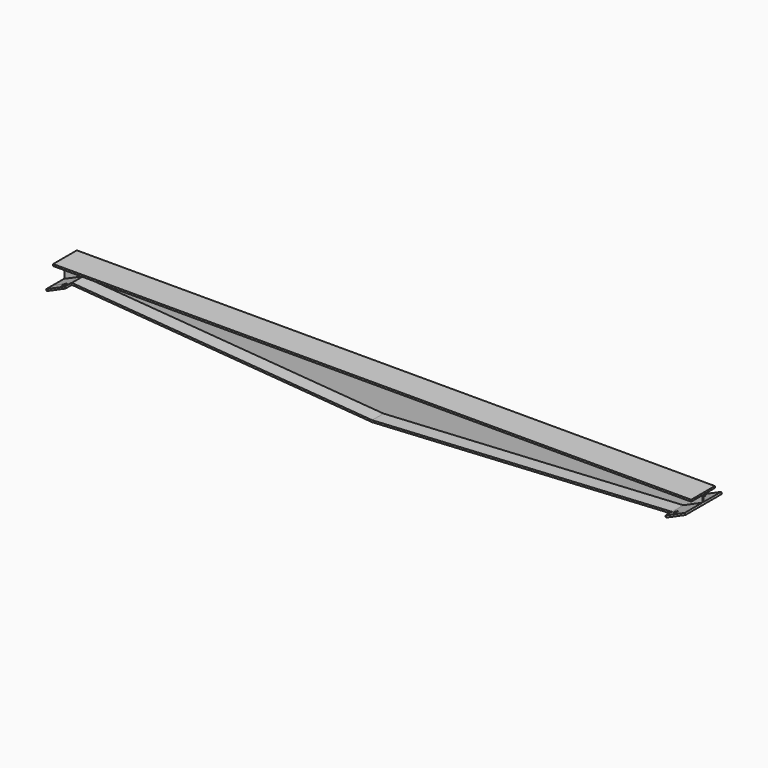
from build123d import *

# Parameters (mm, degrees)
F1_DEPTH = 2.5
F3_DEPTH = 65
F5_W     = 93.2636259532
F5_H     = 200
F5_R     = 8.5
F6_DEPTH = 8
F7_W     = 90
F7_H     = 200
F7_R     = 8.5
F8_DEPTH = 7.33


with BuildPart() as f1:
    # F0 (on Front) → F1 (new body, symmetric)
    with BuildSketch(Plane.XZ):
        Polygon((1400, 140), (0, 140), (-1400, 140), (-1400, 65.3937021232), (-1317.7809088122, 102), (0, 0), (1317.7809088122, 74), (1400, 110.6062978768), align=None)
    extrude(amount=F1_DEPTH, both=True)

    # F2 (on Front) → F3 (join, symmetric)
    with BuildSketch(Plane.XZ):
        Polygon((1317.7809088122, 74), (0, 0), (-1317.7809088122, 102), (-1400, 65.3937021232), (-1400, 57.3697731049), (-1317.7809088122, 93.9760709817), (0, -8.0239290183), (1317.7809088122, 65.9760709817), (1400, 102.5823688585), (1400, 110.6062978768), align=None)
        Polygon((-1400, 140), (0, 140), (1400, 140), (1400, 148), (0, 148), (-1400, 148), align=None)
    extrude(amount=F3_DEPTH, both=True)

    # F5 (on face) → F6 (join)
    with BuildSketch(Plane(origin=(193.4917972476, 0, -434.5896920669), x_dir=(0.9135454576, 0, 0.4067366431), z_dir=(0.4067366431, 0, -0.9135454576))):
        with Locations((1277.3194620245, 0)):
            Rectangle(F5_W, F5_H)
        with Locations((1258.9512750011, -75)):
            Circle(F5_R, mode=Mode.SUBTRACT)
        with Locations((1258.9512750011, 75)):
            Circle(F5_R, mode=Mode.SUBTRACT)
    extrude(amount=-F6_DEPTH)

    # F7 (on face) → F8 (join)
    with BuildSketch(Plane(origin=(-252.9256005596, 0, 568.0801999188), x_dir=(0.9135454576, 0, 0.4067366431), z_dir=(0.4067366431, 0, -0.9135454576))):
        with Locations((-1210.6292517729, 0)):
            Rectangle(F7_W, F7_H)
        with Locations((-1190.6292517729, -73.3960138768)):
            Circle(F7_R, mode=Mode.SUBTRACT)
        with Locations((-1190.6292517729, 73.3960138768)):
            Circle(F7_R, mode=Mode.SUBTRACT)
    extrude(amount=-F8_DEPTH)


solid = f1.part
